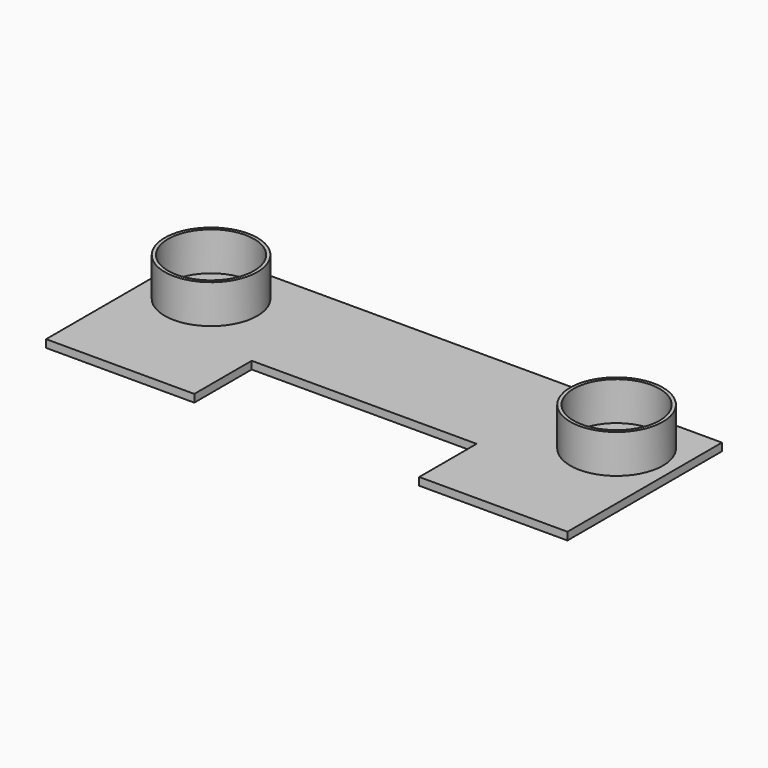
from build123d import *

# Parameters (mm, degrees)
F0_R     = 12
F0_R_2   = 11.15
F1_DEPTH = 10
F2_W     = 135
F2_H     = 50
F3_DEPTH = 2
F4_W     = 58.242576
F4_H     = 37.179895
F5_DEPTH = 25.4


with BuildPart() as f1:
    # F0 (on Top) → F1 (new body)
    with BuildSketch(Plane.XY):
        with Locations((-52.5, 0)):
            Circle(F0_R)
        with Locations((-52.5, 0)):
            Circle(F0_R_2, mode=Mode.SUBTRACT)
        with Locations((52.5, 0)):
            Circle(F0_R)
        with Locations((52.5, 0)):
            Circle(F0_R_2, mode=Mode.SUBTRACT)
    extrude(amount=F1_DEPTH)


with BuildPart() as f3:
    # F2 (on Top) → F3 (new body)
    with BuildSketch(Plane.XY):
        with Locations((-3e-06, -9.651998)):
            Rectangle(F2_W, F2_H)
    extrude(amount=-F3_DEPTH)

    # F4 (on face) → F5 (cut)
    with BuildSketch(Plane.XY):
        with Locations((-3e-06, -34.651998)):
            Rectangle(F4_W, F4_H)
    extrude(amount=-F5_DEPTH, mode=Mode.SUBTRACT)


solid = Compound([f1.part, f3.part])
